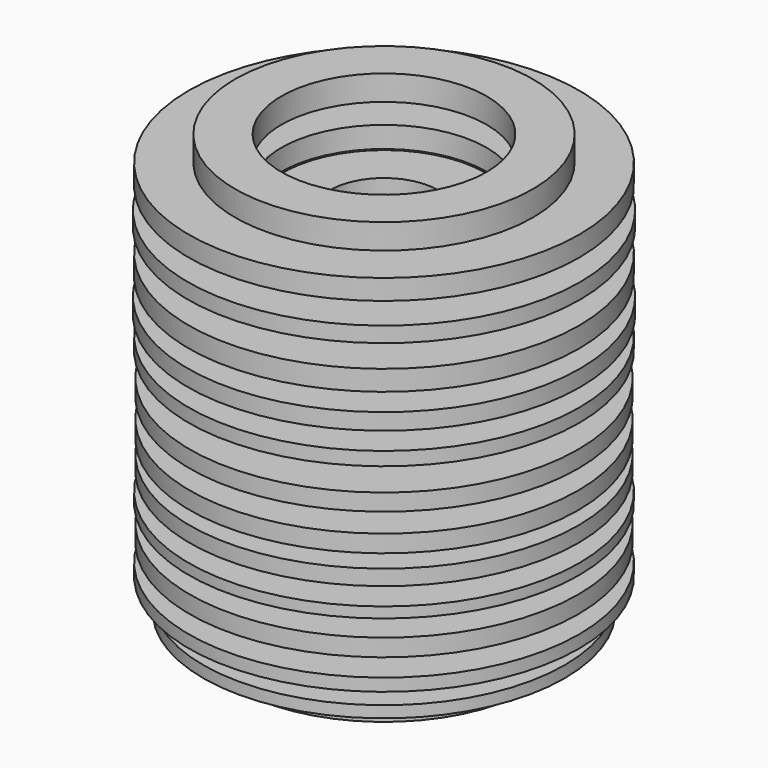
from build123d import *

# Parameters (mm, degrees)
F1_W    = 6.4872968942
F1_H    = 2.8381925076
F1_W_2  = 6.7576039582
F1_H_2  = 2.8381934389
F1_W_3  = 6.8927519023
F1_H_3  = 2.2975848988
F1_W_4  = 6.757600233
F1_W_5  = 6.6224504262
F1_H_4  = 1.8921284936
F1_H_5  = 1.4866720885
F1_H_6  = 1.7569754273
F1_W_6  = 4.5951697975
F1_H_7  = 1.6218256205
F1_H_8  = 2.2975839674
F1_H_9  = 2.027278766
F1_W_7  = 7.5009372085
F1_H_10 = 1.8921270967
F1_W_8  = 6.3521470875
F1_H_11 = 2.5678910315
F1_H_12 = 2.5678854436
F1_H_13 = 2.8381943703
F1_H_14 = 2.2975844331
F1_H_15 = 2.4327361025
F1_H_16 = 2.1624325309
F1_H_17 = 3.0409207102
F1_H_18 = 2.2300085984
F1_H_19 = 2.0272806287
F1_H_20 = 2.1624322981
F1_H_21 = 2.4327365682
F1_W_9  = 6.4872987568
F1_H_22 = 1.892128028
F1_H_23 = 2.4327356368
F1_H_24 = 2.2975858301
F1_H_25 = 2.9733451083
F1_H_26 = 2.9733460397
F1_W_10 = 6.6224485636
F1_H_27 = 2.5678873062
F1_W_11 = 6.6224467009
F1_W_12 = 6.4872996882
F1_H_28 = 2.973344177
F1_H_29 = 3.5139527172


with BuildPart() as f2:
    # F1 (on Front) → F2 (revolve)
    with BuildSketch(Plane.XZ):
        with Locations((24.1246381775, 13.9206591994)):
            Rectangle(F1_W, F1_H)
    revolve(axis=Axis((0, 0, 0), (0, 0, -1)))


with BuildPart() as f2b:
    # F1 (on Front) → F2, piece 2 (revolve)
    with BuildSketch(Plane.XZ):
        with Locations((17.5021877512, 16.7588521726)):
            Rectangle(F1_W_2, F1_H_2)
    revolve(axis=Axis((0, 0, 0), (0, 0, -1)))


with BuildPart() as f2c:
    # F1 (on Front) → F2, piece 3 (revolve)
    with BuildSketch(Plane.XZ):
        with Locations((24.0570604801, 8.920033928)):
            Rectangle(F1_W_3, F1_H_3)
    revolve(axis=Axis((0, 0, 0), (0, 0, -1)))


with BuildPart() as f2d:
    # F1 (on Front) → F2, piece 4 (revolve)
    with BuildSketch(Plane.XZ):
        with Locations((17.2318844125, 11.4879226312)):
            Rectangle(F1_W_4, F1_H)
    revolve(axis=Axis((0, 0, 0), (0, 0, -1)))


with BuildPart() as f2e:
    # F1 (on Front) → F2, piece 5 (revolve)
    with BuildSketch(Plane.XZ):
        with Locations((24.0570614114, 4.2572889943)):
            Rectangle(F1_W_5, F1_H_4)
    revolve(axis=Axis((0, 0, 0), (0, 0, -1)))


with BuildPart() as f2f:
    # F1 (on Front) → F2, piece 6 (revolve)
    with BuildSketch(Plane.XZ):
        with Locations((24.0570614114, -14.7315710783)):
            Rectangle(F1_W_5, F1_H_5)
    revolve(axis=Axis((0, 0, 0), (0, 0, -1)))


with BuildPart() as f2g:
    # F1 (on Front) → F2, piece 7 (revolve)
    with BuildSketch(Plane.XZ):
        with Locations((24.0570614114, -23.6516064033)):
            Rectangle(F1_W_5, F1_H_6)
    revolve(axis=Axis((0, 0, 0), (0, 0, -1)))


with BuildPart() as f2h:
    # F1 (on Front) → F2, piece 8 (revolve)
    with BuildSketch(Plane.XZ):
        with Locations((23.0434210971, -28.0440459028)):
            Rectangle(F1_W_6, F1_H_7)
    revolve(axis=Axis((0, 0, 0), (0, 0, -1)))


with BuildPart() as f2i:
    # F1 (on Front) → F2, piece 9 (revolve)
    with BuildSketch(Plane.XZ):
        with Locations((17.2994602472, -26.0843411088)):
            Rectangle(F1_W_3, F1_H_8)
    revolve(axis=Axis((0, 0, 0), (0, 0, -1)))


with BuildPart() as f2j:
    # F1 (on Front) → F2, piece 10 (revolve)
    with BuildSketch(Plane.XZ):
        with Locations((17.2994602472, -30.679509975)):
            Rectangle(F1_W_3, F1_H_9)
    revolve(axis=Axis((0, 0, 0), (0, 0, -1)))


with BuildPart() as f2k:
    # F1 (on Front) → F2, piece 11 (revolve)
    with BuildSketch(Plane.XZ):
        with Locations((3.7504686043, -35.7477106154)):
            Rectangle(F1_W_7, F1_H_10)
    revolve(axis=Axis((0, 0, 0), (0, 0, -1)))


with BuildPart() as f2l:
    # F1 (on Front) → F2, piece 12 (revolve)
    with BuildSketch(Plane.XZ):
        with Locations((10.6770107523, -33.5177015513)):
            Rectangle(F1_W_8, F1_H_11)
    revolve(axis=Axis((0, 0, 0), (0, 0, -1)))


with BuildPart() as f2m:
    # F1 (on Front) → F2, piece 13 (revolve)
    with BuildSketch(Plane.XZ):
        with Locations((3.7504686043, -30.9498133138)):
            Rectangle(F1_W_7, F1_H_12)
    revolve(axis=Axis((0, 0, 0), (0, 0, -1)))


with BuildPart() as f2n:
    # F1 (on Front) → F2, piece 14 (revolve)
    with BuildSketch(Plane.XZ):
        with Locations((10.6770107523, -28.7198070437)):
            Rectangle(F1_W_8, F1_H_10)
    revolve(axis=Axis((0, 0, 0), (0, 0, -1)))


with BuildPart() as f2o:
    # F1 (on Front) → F2, piece 15 (revolve)
    with BuildSketch(Plane.XZ):
        with Locations((3.7504686043, -26.3546463102)):
            Rectangle(F1_W_7, F1_H_13)
    revolve(axis=Axis((0, 0, 0), (0, 0, -1)))


with BuildPart() as f2p:
    # F1 (on Front) → F2, piece 16 (revolve)
    with BuildSketch(Plane.XZ):
        with Locations((10.6770107523, 8.7848815601)):
            Rectangle(F1_W_8, F1_H_14)
        with Locations((3.7504686043, 6.4197212923)):
            Rectangle(F1_W_7, F1_H_15)
        with Locations((10.6770107523, 6.4197212923)):
            Rectangle(F1_W_8, F1_H_15)
        with Locations((17.2994602472, 6.4197212923)):
            Rectangle(F1_W_3, F1_H_15)
        with Locations((10.6770107523, 4.1221369756)):
            Rectangle(F1_W_8, F1_H_16)
        with Locations((3.7504686043, 1.5204603551)):
            Rectangle(F1_W_7, F1_H_17)
        with Locations((10.6770107523, 1.5204603551)):
            Rectangle(F1_W_8, F1_H_17)
        with Locations((17.2994602472, 1.5204603551)):
            Rectangle(F1_W_3, F1_H_17)
        with Locations((10.6770107523, -1.1150042992)):
            Rectangle(F1_W_8, F1_H_18)
        with Locations((17.2994602472, -1.1150042992)):
            Rectangle(F1_W_3, F1_H_18)
        with Locations((3.7504686043, -3.6491048522)):
            Rectangle(F1_W_7, F1_H)
        with Locations((10.6770107523, -3.6491048522)):
            Rectangle(F1_W_8, F1_H)
        Polygon((27.2331349552, 0), (20.7458361983, 0), (20.7458361983, -2.2300085984), (20.7458361983, -2.3651605006), (27.2331349552, -2.3651605006), align=None)
        Polygon((20.7458361983, -2.2300085984), (13.853084296, -2.2300085984), (13.853084296, -5.068201106), (20.7458361983, -5.068201106), (20.7458361983, -2.3651605006), align=None)
        with Locations((10.6770107523, -6.2169933226)):
            Rectangle(F1_W_8, F1_H_14)
        with Locations((17.2994602472, -6.2169933226)):
            Rectangle(F1_W_3, F1_H_14)
        with Locations((3.7504686043, -8.3794258535)):
            Rectangle(F1_W_7, F1_H_19)
        with Locations((10.6770107523, -8.3794258535)):
            Rectangle(F1_W_8, F1_H_19)
        Polygon((20.7458361983, -7.3657855392), (13.853084296, -7.3657855392), (13.853084296, -9.3930661678), (20.7458361983, -9.3930661678), (20.7458361983, -7.5009376742), align=None)
        Polygon((27.2331349552, -5.068201106), (20.7458361983, -5.068201106), (20.7458361983, -7.3657855392), (20.7458361983, -7.5009376742), (27.2331349552, -7.5009376742), align=None)
        with Locations((10.6770107523, -10.4742823169)):
            Rectangle(F1_W_8, F1_H_20)
        with Locations((17.2994602472, -10.4742823169)):
            Rectangle(F1_W_3, F1_H_20)
        with Locations((3.7504686043, -12.77186675)):
            Rectangle(F1_W_7, F1_H_21)
        with Locations((10.6770107523, -12.77186675)):
            Rectangle(F1_W_8, F1_H_21)
        with Locations((17.2994602472, -12.77186675)):
            Rectangle(F1_W_3, F1_H_21)
        with Locations((23.9894855767, -10.4742823169)):
            Rectangle(F1_W_9, F1_H_20)
        with Locations((10.6770107523, -14.934299048)):
            Rectangle(F1_W_8, F1_H_22)
        with Locations((3.7504686043, -16.8940033764)):
            Rectangle(F1_W_7, F1_H_19)
        with Locations((10.6770107523, -16.8940033764)):
            Rectangle(F1_W_8, F1_H_19)
        with Locations((17.2994602472, -16.8940033764)):
            Rectangle(F1_W_3, F1_H_19)
        with Locations((10.6770107523, -19.1240115091)):
            Rectangle(F1_W_8, F1_H_23)
        with Locations((17.2994602472, -19.1240115091)):
            Rectangle(F1_W_3, F1_H_23)
        with Locations((3.7504686043, -21.4891722426)):
            Rectangle(F1_W_7, F1_H_24)
        with Locations((10.6770107523, -21.4891722426)):
            Rectangle(F1_W_8, F1_H_24)
        with Locations((23.9894855767, -19.1240115091)):
            Rectangle(F1_W_9, F1_H_23)
        Polygon((20.7458361983, -20.3403793275), (13.853084296, -20.3403793275), (13.853084296, -22.6379651576), (13.853084296, -22.7731186897), (20.7458361983, -22.7731186897), align=None)
        Polygon((13.853084296, -22.6379651576), (7.5009372085, -22.6379651576), (7.5009372085, -24.9355491251), (13.853084296, -24.9355491251), (13.853084296, -22.7731186897), align=None)
    revolve(axis=Axis((0, 0, 0), (0, 0, -1)))


with BuildPart() as f2q:
    # F1 (on Front) → F2, piece 17 (revolve)
    with BuildSketch(Plane.XZ):
        with Locations((3.7504686043, 11.4203463309)):
            Rectangle(F1_W_7, F1_H_25)
    revolve(axis=Axis((0, 0, 0), (0, 0, -1)))


with BuildPart() as f2r:
    # F1 (on Front) → F2, piece 18 (revolve)
    with BuildSketch(Plane.XZ):
        with Locations((10.6770107523, 14.0558108687)):
            Rectangle(F1_W_8, F1_H_8)
    revolve(axis=Axis((0, 0, 0), (0, 0, -1)))


with BuildPart() as f2s:
    # F1 (on Front) → F2, piece 19 (revolve)
    with BuildSketch(Plane.XZ):
        with Locations((3.7504686043, 16.6912758723)):
            Rectangle(F1_W_7, F1_H_26)
    revolve(axis=Axis((0, 0, 0), (0, 0, -1)))


with BuildPart() as f2t:
    # F1 (on Front) → F2, piece 20 (revolve)
    with BuildSketch(Plane.XZ):
        with Locations((10.8121614903, 19.4618925452)):
            Rectangle(F1_W_10, F1_H_27)
    revolve(axis=Axis((0, 0, 0), (0, 0, -1)))


with BuildPart() as f2u:
    # F1 (on Front) → F2, piece 21 (revolve)
    with BuildSketch(Plane.XZ):
        with Locations((24.1922130808, 19.6646200493)):
            Rectangle(F1_W_11, F1_H_20)
    revolve(axis=Axis((0, 0, 0), (0, 0, -1)))


with BuildPart() as f2v:
    # F1 (on Front) → F2, piece 22 (revolve)
    with BuildSketch(Plane.XZ):
        with Locations((17.6373398863, 22.2325082868)):
            Rectangle(F1_W_12, F1_H_28)
    revolve(axis=Axis((0, 0, 0), (0, 0, -1)))


with BuildPart() as f2w:
    # F1 (on Front) → F2, piece 23 (revolve)
    with BuildSketch(Plane.XZ):
        with Locations((24.1246381775, 25.1382775605)):
            Rectangle(F1_W, F1_H_13)
    revolve(axis=Axis((0, 0, 0), (0, 0, -1)))


with BuildPart() as f2x:
    # F1 (on Front) → F2, piece 24 (revolve)
    with BuildSketch(Plane.XZ):
        with Locations((17.6373398863, 28.3143511042)):
            Rectangle(F1_W_12, F1_H_29)
    revolve(axis=Axis((0, 0, 0), (0, 0, -1)))


solid = Compound([f2.part, f2b.part, f2c.part, f2d.part, f2e.part, f2f.part, f2g.part, f2h.part, f2i.part, f2j.part, f2k.part, f2l.part, f2m.part, f2n.part, f2o.part, f2p.part, f2q.part, f2r.part, f2s.part, f2t.part, f2u.part, f2v.part, f2w.part, f2x.part])
